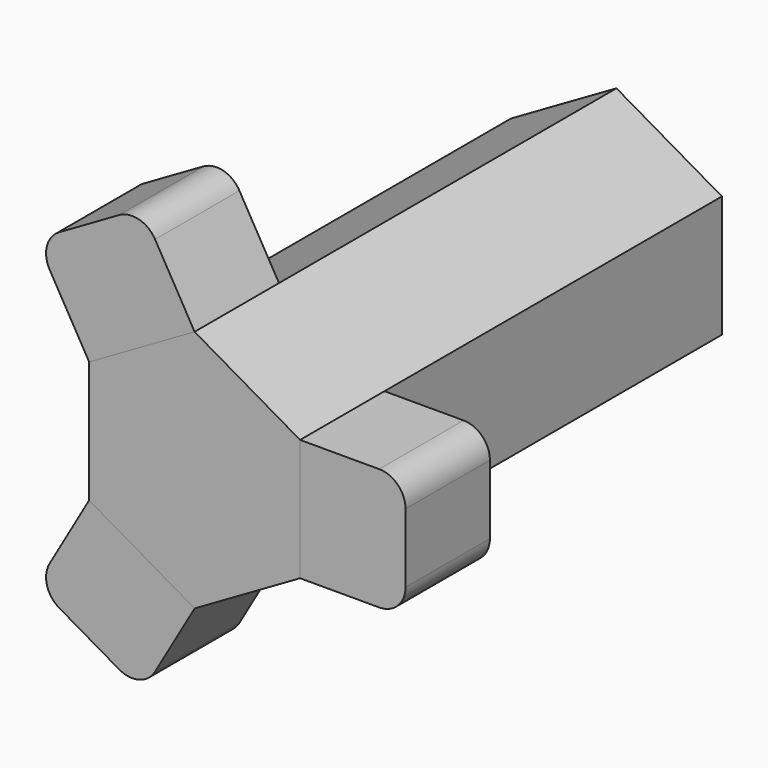
from build123d import *

# Parameters (mm, degrees)
F1_DEPTH = 76.2
F2_DEPTH = 127
F3_DEPTH = 25.4


with BuildPart() as f1:
    # F0 (on Front) → F1 (new body)
    with BuildSketch(Plane.XZ):
        Polygon((-33.935963, 27.233497), (-33.935963, 38.23202), (-43.460963, 43.731281), (-52.985963, 38.23202), (-52.985963, 27.233497), (-43.460963, 21.734236), align=None)
    extrude(amount=-F1_DEPTH)

    # F0 (on Front) → F2 (join)
    with BuildSketch(Plane.XZ):
        Polygon((-18.060963, 18.068062), (-18.060963, 47.397456), (-43.460963, 62.062152), (-68.860963, 47.397456), (-68.860963, 18.068062), (-43.460963, 3.403365), align=None)
        Polygon((-43.460963, 43.731281), (-33.935963, 38.23202), (-33.935963, 27.233497), (-43.460963, 21.734236), (-52.985963, 27.233497), (-52.985963, 38.23202), align=None, mode=Mode.SUBTRACT)
    extrude(amount=-F2_DEPTH)


with BuildPart() as f3:
    # F0 (on Front) → F3 (new body)
    with BuildSketch(Plane.XZ):
        with BuildLine():
            Line((-68.860963, 47.397456), (-43.460963, 62.062152))
            Line((-43.460963, 62.062152), (-52.985963, 78.559936))
            ThreePointArc((-52.985963, 78.559936), (-56.841724, 81.518565), (-61.660224, 80.884198))
            Line((-61.660224, 80.884198), (-76.061702, 72.569501))
            ThreePointArc((-76.061702, 72.569501), (-79.020331, 68.71374), (-78.385963, 63.895239))
            Line((-78.385963, 63.895239), (-68.860963, 47.397456))
        make_face()
        with BuildLine():
            Line((-52.985963, -13.094419), (-43.460963, 3.403365))
            Line((-43.460963, 3.403365), (-68.860963, 18.068062))
            Line((-68.860963, 18.068062), (-78.385963, 1.570278))
            ThreePointArc((-78.385963, 1.570278), (-79.020331, -3.248223), (-76.061702, -7.103983))
            Line((-76.061702, -7.103983), (-61.660224, -15.41868))
            ThreePointArc((-61.660224, -15.41868), (-56.841724, -16.053048), (-52.985963, -13.094419))
        make_face()
        with BuildLine():
            Line((0.989037, 47.397456), (-18.060963, 47.397456))
            Line((-18.060963, 47.397456), (-18.060963, 18.068062))
            Line((-18.060963, 18.068062), (0.989037, 18.068062))
            ThreePointArc((0.989037, 18.068062), (5.479165, 19.927934), (7.339037, 24.418062))
            Line((7.339037, 24.418062), (7.339037, 41.047456))
            ThreePointArc((7.339037, 41.047456), (5.479165, 45.537584), (0.989037, 47.397456))
        make_face()
    extrude(amount=-F3_DEPTH)


solid = Compound([f1.part, f3.part])
